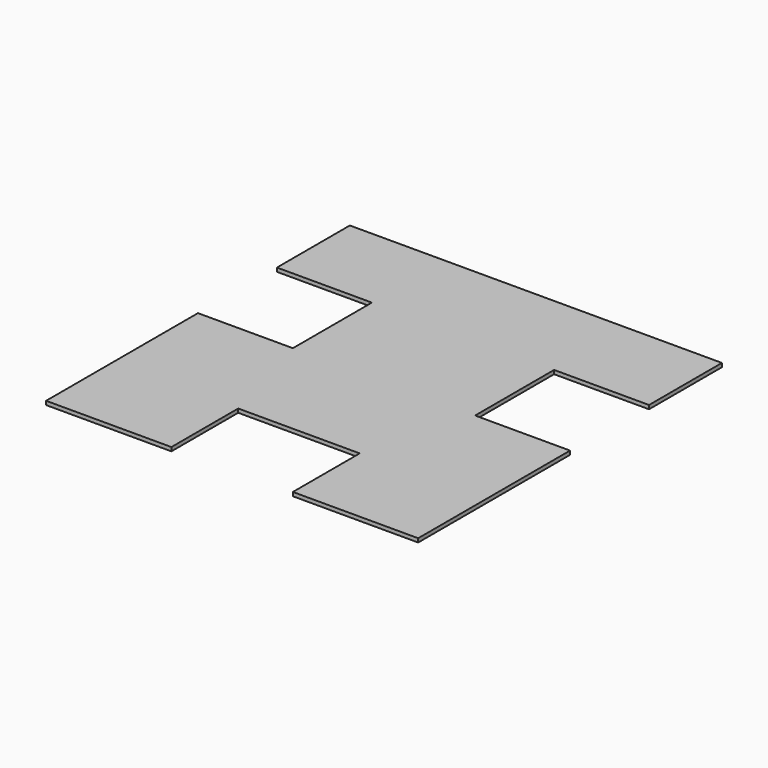
from build123d import *

# Parameters (mm, degrees)
F0_W     = 490
F0_H     = 500
F1_DEPTH = 5
F2_W     = 160
F2_H     = 110
F2_W_2   = 125
F2_H_2   = 130
F3_DEPTH = 25


with BuildPart() as f1:
    # F0 (on Top) → F1 (new body)
    with BuildSketch(Plane.XY):
        with Locations((245, 250)):
            Rectangle(F0_W, F0_H)
    extrude(amount=F1_DEPTH)

    # F2 (on face) → F3 (cut)
    with BuildSketch(Plane.XY.offset(5)):
        with Locations((245, 55)):
            Rectangle(F2_W, F2_H)
        with Locations((62.5, 315)):
            Rectangle(F2_W_2, F2_H_2)
        with Locations((427.5, 315)):
            Rectangle(F2_W_2, F2_H_2)
    extrude(amount=-F3_DEPTH, mode=Mode.SUBTRACT)


solid = f1.part
